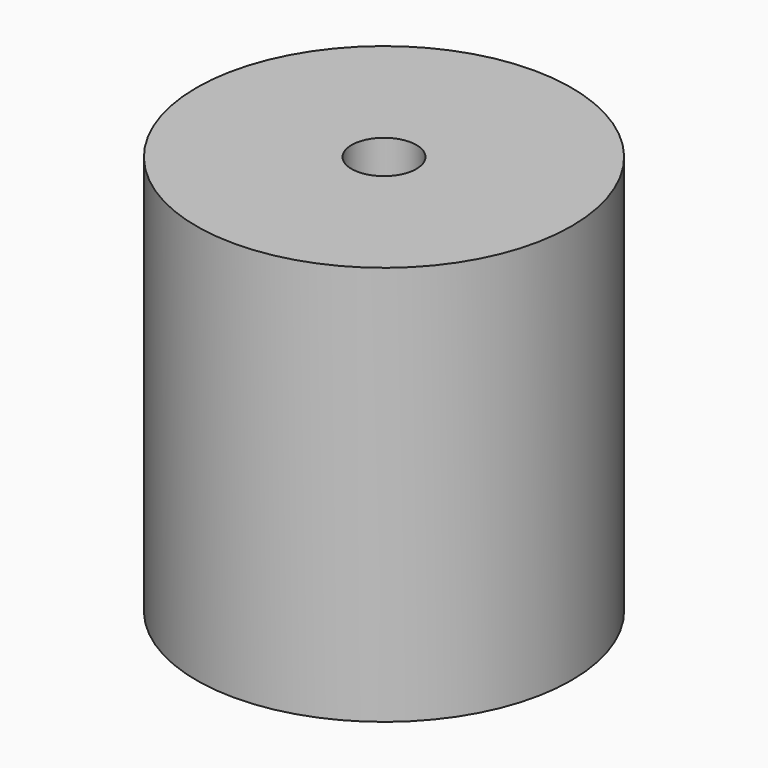
from build123d import *

# Parameters (mm, degrees)
F0_R     = 47.659552
F2_DEPTH = 101.6
F1_R     = 13.037105
F3_DEPTH = 101.6
F4_R     = 8.24229
F5_DEPTH = 101.6


with BuildPart() as f2:
    # F0 (on Top) → F2 (new body)
    with BuildSketch(Plane.XY):
        Circle(F0_R)
    extrude(amount=F2_DEPTH)

    # F1 (on face) → F3 (join)
    with BuildSketch(Plane.XY):
        Circle(F1_R)
    extrude(amount=F3_DEPTH)

    # F4 (on face) → F5 (cut)
    with BuildSketch(Plane(origin=(0, 0, 0), x_dir=(1, 0, 0), z_dir=(0, 0, -1))):
        Circle(F4_R)
    extrude(amount=-F5_DEPTH, mode=Mode.SUBTRACT)


solid = f2.part
